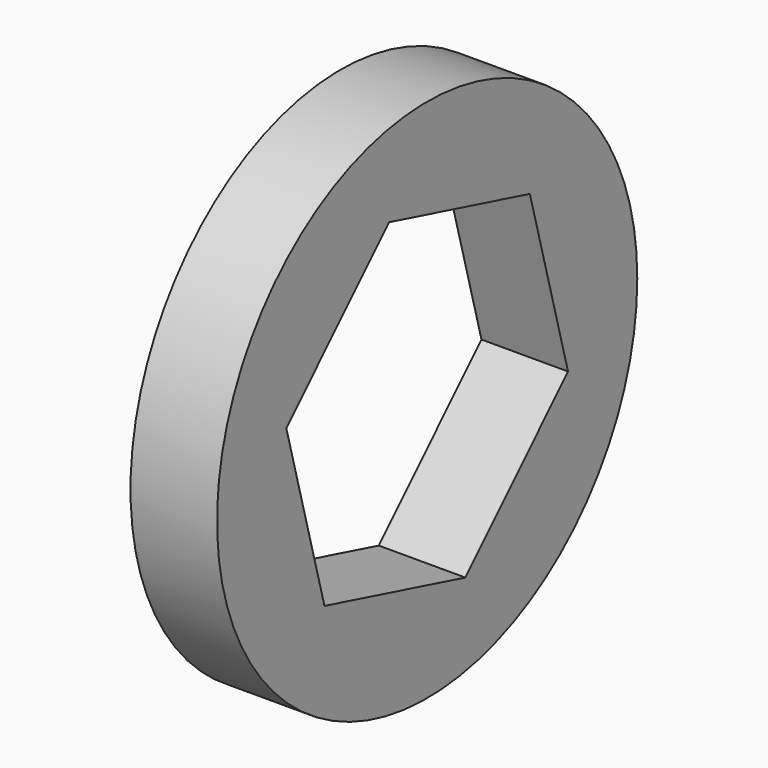
from build123d import *

# Parameters (mm, degrees)
F0_R     = 77.066086
F1_DEPTH = 25.4
F3_DEPTH = 25.4


with BuildPart() as f1:
    # F0 (on Right) → F1 (new body)
    with BuildSketch(Plane.YZ):
        Circle(F0_R)
    extrude(amount=F1_DEPTH)

    # F2 (on face) → F3 (cut)
    with BuildSketch(Plane(origin=(0, 0, 0), x_dir=(0, -1, 0), z_dir=(-1, 0, 0))):
        Polygon((51.66469, 13.667783), (13.995698, 51.576825), (-37.668992, 37.909042), (-51.66469, -13.667783), (-13.995698, -51.576825), (37.668992, -37.909042), align=None)
    extrude(amount=-F3_DEPTH, mode=Mode.SUBTRACT)


solid = f1.part
